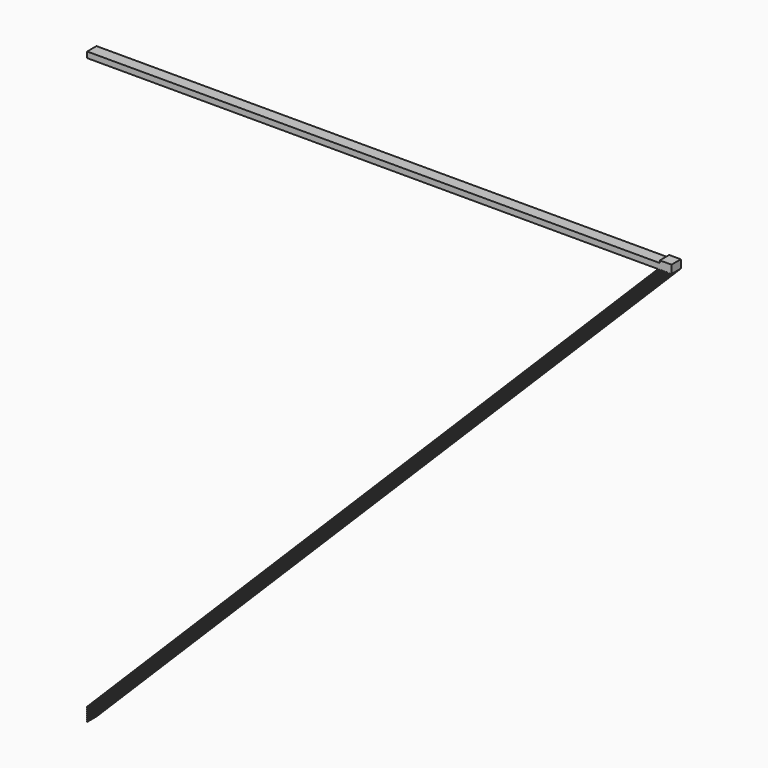
from build123d import *

# Parameters (mm, degrees)
F1_DEPTH = 5
F3_W     = 10
F3_H     = 10
F4_DEPTH = 2
F5_R     = 0.5


with BuildPart() as f1:
    # F0 (on Front) → F1 (new body, symmetric)
    with BuildSketch(Plane.XZ):
        Polygon((249.854166, 313.379943), (249.854166, 318.379943), (-250.145834, 318.379943), (-250.145834, 313.379943), (238.354166, 313.379943), (239.354166, 313.379943), (239.854166, 313.379943), (240.854166, 313.379943), (241.354166, 313.379943), (242.354166, 313.379943), (242.854166, 313.379943), (243.854166, 313.379943), (244.354166, 313.379943), (245.354166, 313.379943), (245.854166, 313.379943), (246.854166, 313.379943), (247.354166, 313.379943), (248.354166, 313.379943), (248.854166, 313.379943), align=None)
        Polygon((-250.145834, -185.120057), (248.354166, 313.379943), (247.354166, 313.379943), (-250.145834, -184.120057), align=None)
        Polygon((-250.145834, -186.620057), (249.854166, 313.379943), (248.854166, 313.379943), (-250.145834, -185.620057), align=None)
        Polygon((-250.145834, -182.120057), (245.354166, 313.379943), (244.354166, 313.379943), (-250.145834, -181.120057), align=None)
        Polygon((-250.145834, -183.620057), (246.854166, 313.379943), (245.854166, 313.379943), (-250.145834, -182.620057), align=None)
        Polygon((240.854166, 313.379943), (239.854166, 313.379943), (-250.145834, -176.620057), (-250.145834, -177.620057), align=None)
        Polygon((242.354166, 313.379943), (241.354166, 313.379943), (-250.145834, -178.120057), (-250.145834, -179.120057), align=None)
        Polygon((-250.145834, -180.620057), (243.854166, 313.379943), (242.854166, 313.379943), (-250.145834, -179.620057), align=None)
        Polygon((239.354166, 313.379943), (238.354166, 313.379943), (-250.145834, -175.120057), (-250.145834, -176.120057), align=None)
    extrude(amount=F1_DEPTH, both=True)

    # F3 (on face) → F4 (join)
    with BuildSketch(Plane.XY.offset(318.379943)):
        with Locations((244.854166, 0)):
            Rectangle(F3_W, F3_H)
    extrude(amount=F4_DEPTH)

    # F5
    f5_edges = [f1.edges().sort_by_distance(p)[0] for p in [
        (239.854166, 0, 318.379943),
        (249.854166, 0, 313.379943),
    ]]
    fillet(f5_edges, radius=F5_R)


solid = f1.part
